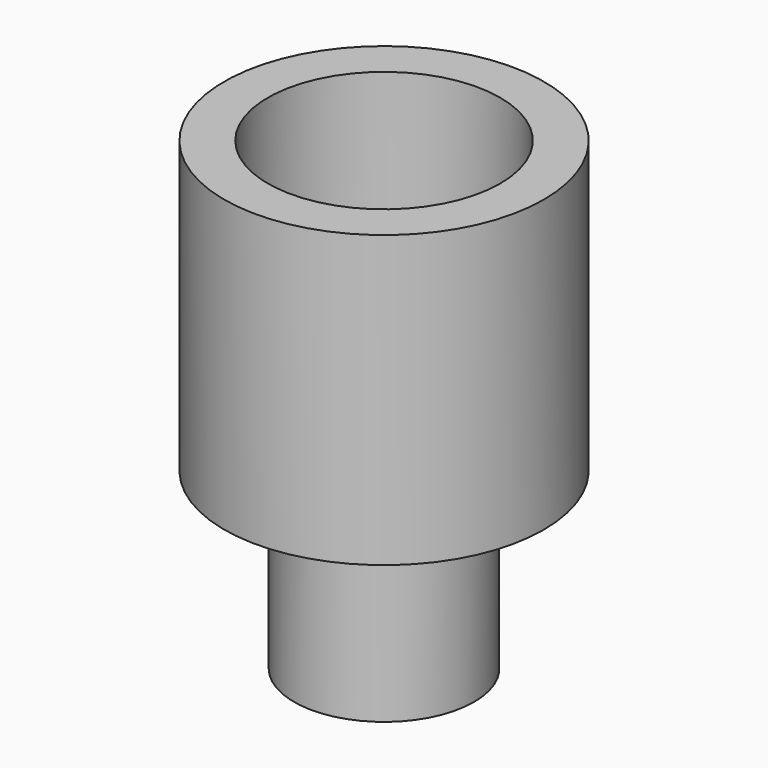
from build123d import *

# Parameters (mm, degrees)
F0_R     = 2.75
F0_R_2   = 2
F1_DEPTH = 5
F0_R_3   = 1.55
F2_DEPTH = 1
F0_R_4   = 1
F3_DEPTH = 3
F4_DEPTH = 1


with BuildPart() as f1:
    # F0 (on Top) → F1 (new body)
    with BuildSketch(Plane.XY):
        Circle(F0_R)
        Circle(F0_R_2, mode=Mode.SUBTRACT)
    extrude(amount=F1_DEPTH)

    # F0 (on Top) → F2 (join)
    with BuildSketch(Plane.XY):
        Circle(F0_R)
        Circle(F0_R_2, mode=Mode.SUBTRACT)
        Circle(F0_R_2)
        Circle(F0_R_3, mode=Mode.SUBTRACT)
    extrude(amount=F2_DEPTH)

    # F0 (on Top) → F3 (join)
    with BuildSketch(Plane.XY):
        Circle(F0_R_3)
        Circle(F0_R_4, mode=Mode.SUBTRACT)
    extrude(amount=-F3_DEPTH)

    # F0 (on Top) → F4 (join)
    with BuildSketch(Plane.XY):
        Circle(F0_R_3)
        Circle(F0_R_4, mode=Mode.SUBTRACT)
    extrude(amount=F4_DEPTH)


solid = f1.part
